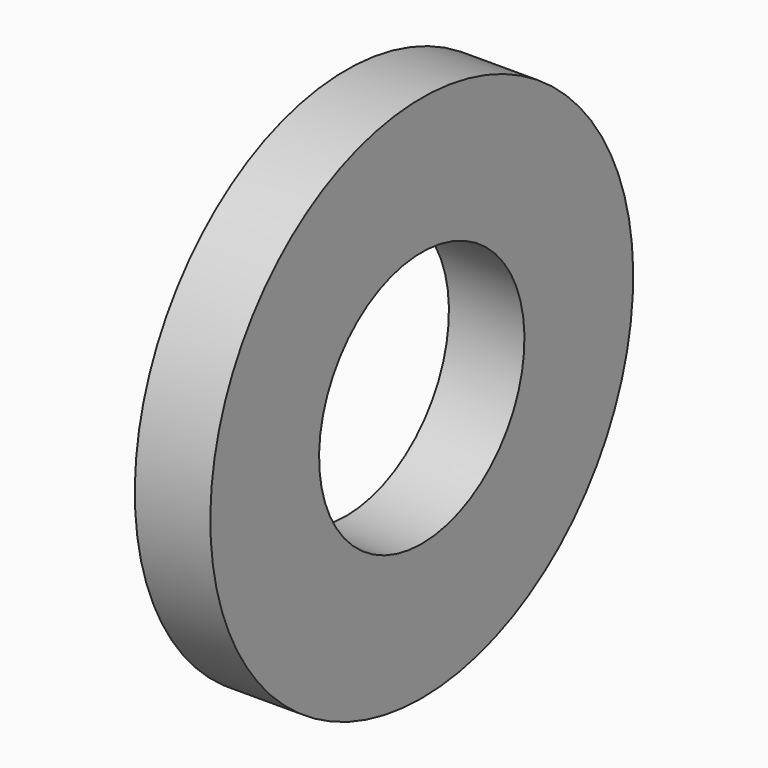
from build123d import *

# Parameters (mm, degrees)
CYLINDER1388_R     = 1.7
CYLINDER1388_DEPTH = 1
CYLINDER1386_R     = 3.5
CYLINDER1386_DEPTH = 1


with BuildPart() as cylinder1388:
    # Cylinder1388 → Cylinder1388 (new body)
    with BuildSketch(Plane(origin=(436, 103, 100), x_dir=(0, 0, -1), z_dir=(1, 0, 0))):
        Circle(CYLINDER1388_R)
    extrude(amount=CYLINDER1388_DEPTH)


with BuildPart() as bucket_left_half_short_spacer:
    # Cylinder1386 → Cylinder1386 (new body)
    with BuildSketch(Plane(origin=(436, 103, 100), x_dir=(0, 0, -1), z_dir=(1, 0, 0))):
        Circle(CYLINDER1386_R)
    extrude(amount=CYLINDER1386_DEPTH)

    # Cut014355: cut Cylinder1388
    add(cylinder1388.part, mode=Mode.SUBTRACT)


with BuildPart() as bucket_left_half_short_spacer_1:
    # Cut014355 placement: moved
    add(bucket_left_half_short_spacer.part.moved(Location((-0.5, 0, 0))))


solid = bucket_left_half_short_spacer_1.part
